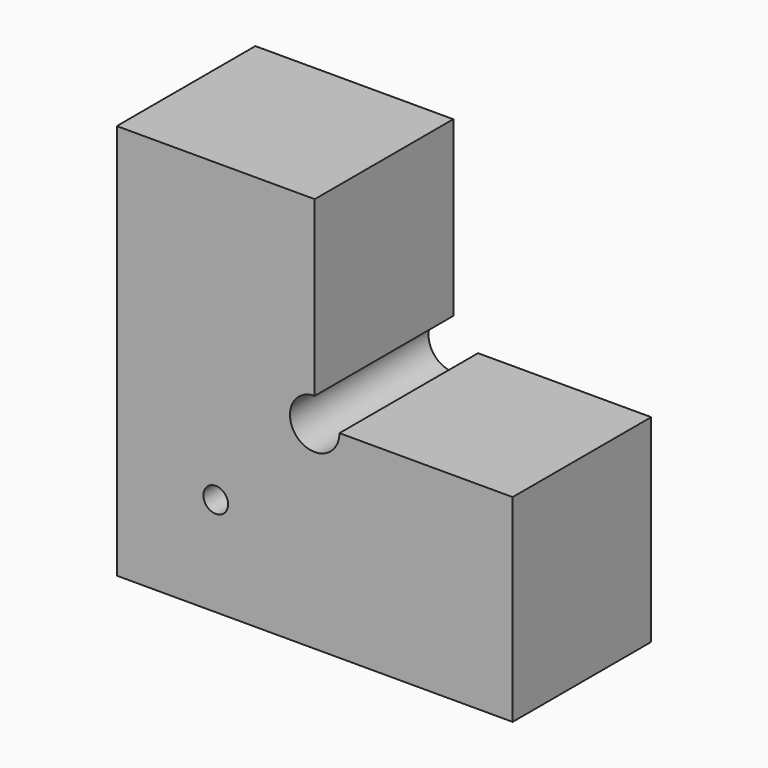
from build123d import *

# Parameters (mm, degrees)
F0_W     = 101.6
F0_H     = 101.6
F1_DEPTH = 44.45
F3_D     = 12.7
F4_W     = 50.8
F4_H     = 50.8
F5_DEPTH = 88.9
F7_D     = 6.35


with BuildPart() as f1:
    # F0 (on Front) → F1 (new body)
    with BuildSketch(Plane.XZ):
        Rectangle(F0_W, F0_H)
    extrude(amount=F1_DEPTH)

    # F3 (through all)
    with Locations(Plane.XZ.offset(44.45)):
        with Locations((0, 0)):
            Hole(F3_D / 2)

    # F4 (on face) → F5 (cut)
    with BuildSketch(Plane.XZ.offset(44.45)):
        with Locations((25.4, 25.4)):
            Rectangle(F4_W, F4_H)
    extrude(amount=-F5_DEPTH, mode=Mode.SUBTRACT)

    # F7 (through all)
    with Locations(Plane.XZ.offset(44.45)):
        with Locations((-25.4, -25.4)):
            Hole(F7_D / 2)


solid = f1.part
